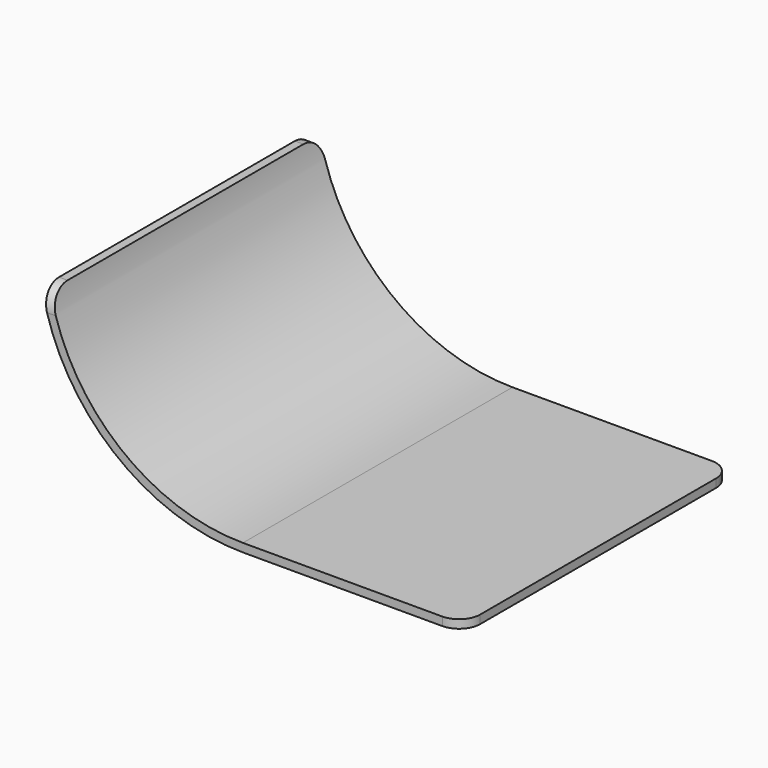
from build123d import *

# Parameters (mm, degrees)
F1_DEPTH = 80
F2_R     = 5


with BuildPart() as f1:
    # F0 (on Front) → F1 (new body)
    with BuildSketch(Plane.XZ):
        with BuildLine():
            Line((-52.329856, 0), (0, 0))
            Line((0, 0), (0, 2))
            Line((0, 2), (-52.329856, 2))
            ThreePointArc((-52.329856, 2), (-82.023376, 12.743672), (-97.967784, 40))
            Line((-97.967784, 40), (-100, 40))
            ThreePointArc((-100, 40), (-83.444333, 11.324743), (-52.329856, 0))
        make_face()
    extrude(amount=F1_DEPTH)

    # F2
    f2_edges = [f1.edges().sort_by_distance(p)[0] for p in [
        (-98.983892, -80, 40),
        (-98.983892, 0, 40),
        (0, -80, 1),
        (0, 0, 1),
    ]]
    fillet(f2_edges, radius=F2_R)


solid = f1.part
